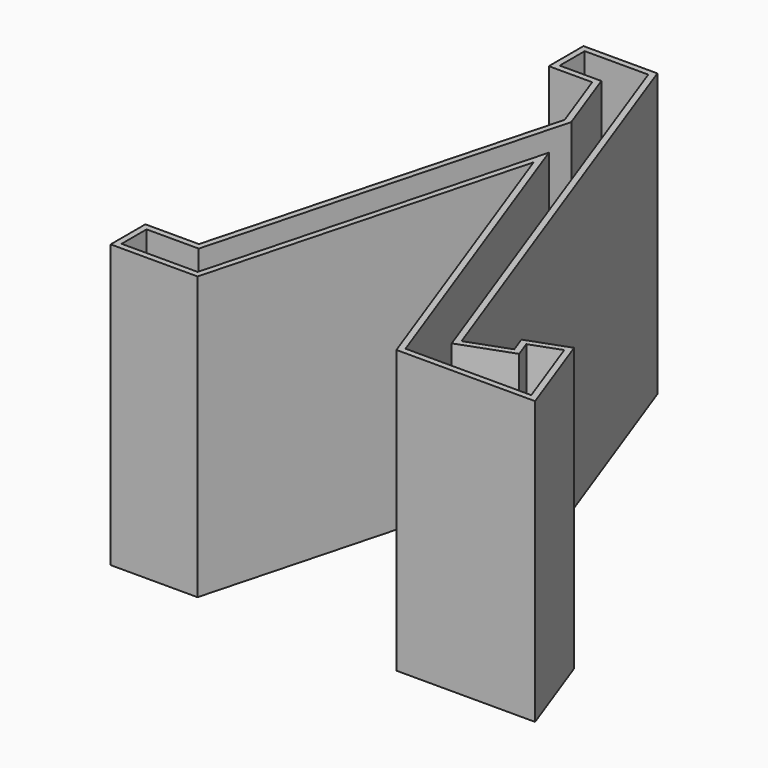
from build123d import *

# Parameters (mm, degrees)
F1_DEPTH = 65
F2_DEPTH = 1.5
F3_W     = 2
F3_H     = 6.2
F4_DEPTH = 30
F5_W     = 1.4
F5_H     = 15
F6_DEPTH = 1
F7_W     = 4
F7_H     = 9
F8_DEPTH = 1.4


with BuildPart() as f1:
    # F0 (on Top) → F1 (new body)
    with BuildSketch(Plane.XY):
        Polygon((-0.233996, 72.444437), (26.133623, 0), (58.058956, 0), (50.56147, 20.599173), (41.164544, 17.178972), (42.532624, 13.420201), (33.135698, 10), (-4.486518, 113.366188), (-21.488593, 113.366188), (-21.488593, 103.366188), (-11.488593, 103.366188), (-6.196935, 88.827478), (-27.318694, 10), (-39.645425, 10), (-39.645425, 0), (-19.645425, 0), align=None)
        Polygon((-10.508303, 104.766188), (-20.088593, 104.766188), (-20.088593, 111.966188), (-5.466808, 111.966188), (32.298956, 8.205602), (44.327022, 12.58346), (42.958941, 16.34223), (49.724728, 18.804775), (56.059548, 1.4), (27.113913, 1.4), (-0.437076, 77.095719), (-20.719682, 1.4), (-38.245425, 1.4), (-38.245425, 8.6), (-26.244437, 8.6), (-4.730392, 88.891509), align=None, mode=Mode.SUBTRACT)
    extrude(amount=F1_DEPTH)

    # F5 (on face) → F6 (join)
    with BuildSketch(Plane(origin=(0, 1.4, 0), x_dir=(-1, 0, 0), z_dir=(0, 1, 0))):
        with Locations((29.045425, 12.5)):
            Rectangle(F5_W, F5_H)
    extrude(amount=F6_DEPTH)

    # F7 (on face) → F8 (cut, through all)
    with BuildSketch(Plane(origin=(-39.645425, 0, 0), x_dir=(0, -1, 0), z_dir=(-1, 0, 0))):
        with Locations((-4, 13)):
            Rectangle(F7_W, F7_H)
    extrude(amount=-F8_DEPTH, mode=Mode.SUBTRACT)


with BuildPart() as f2:
    # F0 (on Top) → F2 (new body)
    with BuildSketch(Plane.XY):
        Polygon((-19.588593, 105.266188), (-10.158199, 105.266188), (-4.206626, 88.914377), (-25.860773, 8.1), (-37.745425, 8.1), (-37.745425, 1.9), (-21.103346, 1.9), (-0.509604, 78.756891), (27.464017, 1.9), (55.345474, 1.9), (49.425892, 18.163919), (43.599798, 16.043394), (44.967878, 12.284624), (32.00012, 7.564746), (-5.816912, 111.466188), (-19.588593, 111.466188), align=None)
    extrude(amount=F2_DEPTH)

    # F3 (on face) → F4 (join)
    with BuildSketch(Plane.XY.offset(1.5)):
        with Locations((-18.588593, 108.366188)):
            Rectangle(F3_W, F3_H)
        Polygon((-5.816912, 111.466188), (-7.037687, 111.466188), (-11.378974, 105.266188), (-10.158199, 105.266188), (-9.740669, 104.119035), (-5.399383, 110.319035), align=None)
        Polygon((1.369781, 79.440932), (-0.509604, 78.756891), (1.542517, 73.118736), (3.421902, 73.802776), align=None)
        Polygon((43.599798, 16.043394), (44.283838, 14.164009), (50.109932, 16.284534), (49.425892, 18.163919), align=None)
        Polygon((55.345474, 1.9), (54.617534, 3.9), (52.617534, 3.9), (52.617534, 1.9), align=None)
        Polygon((27.464017, 1.9), (29.464017, 1.9), (29.464017, 3.9), (26.736076, 3.9), align=None)
        Polygon((-23.103346, 3.9), (-23.103346, 1.9), (-21.103346, 1.9), (-20.567447, 3.9), align=None)
    extrude(amount=F4_DEPTH)


solid = Compound([f1.part, f2.part])
